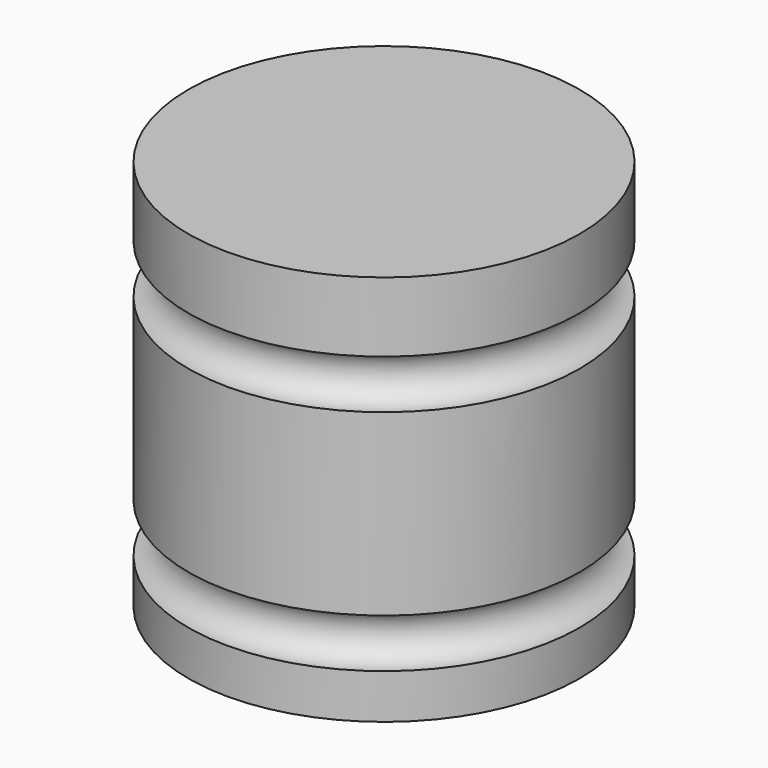
from build123d import *


with BuildPart() as f1:
    # F0 (on Front) → F1 (revolve)
    with BuildSketch(Plane.XZ):
        with BuildLine():
            Line((-25.4, 0), (0, 0))
            Line((0, 0), (0, 5.802694))
            ThreePointArc((0, 5.802694), (-3.175, 8.977694), (0, 12.152694))
            Line((0, 12.152694), (0, 35.399491))
            ThreePointArc((0, 35.399491), (-3.175, 38.574491), (0, 41.749491))
            Line((0, 41.749491), (0, 50.8))
            Line((0, 50.8), (-25.4, 50.8))
            Line((-25.4, 50.8), (-25.4, 0))
        make_face()
    revolve(axis=Axis((-25.4, 0, 25.4), (0, 0, 1)))


solid = f1.part
